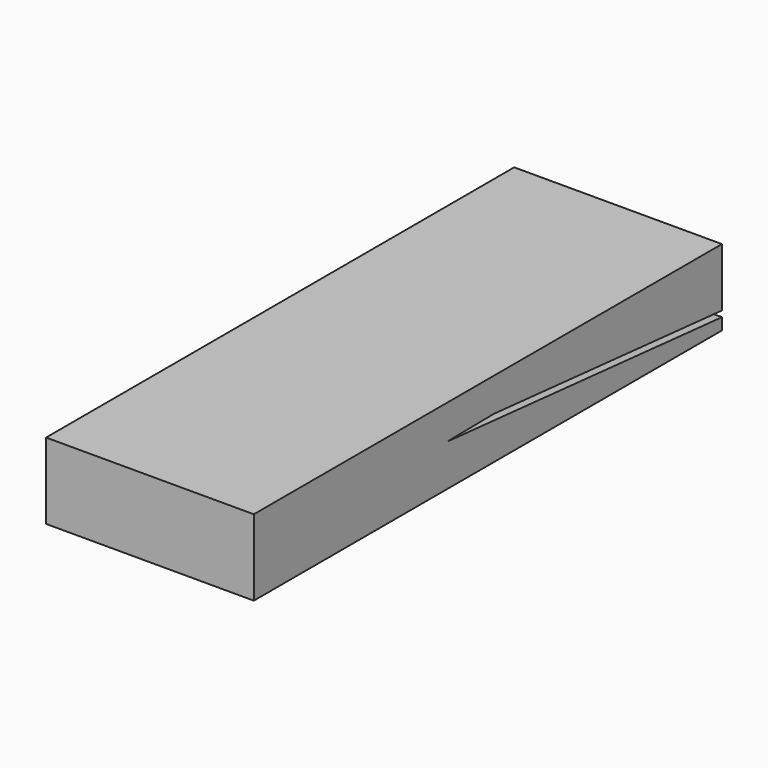
from build123d import *

# Parameters (mm, degrees)
F0_W     = 710
F0_H     = 260
F1_DEPTH = 2000
F3_DEPTH = 710.001


with BuildPart() as f1:
    # F0 (on Front) → F1 (new body)
    with BuildSketch(Plane.XZ):
        Rectangle(F0_W, F0_H)
    extrude(amount=F1_DEPTH)

    # F2 (on face) → F3 (cut, through all)
    with BuildSketch(Plane.YZ.offset(355)):
        Polygon((0, -90), (0, -70), (-974.771162, 15.281426), (-1174.771162, 12.779159), align=None)
    extrude(amount=-F3_DEPTH, mode=Mode.SUBTRACT)


solid = f1.part
